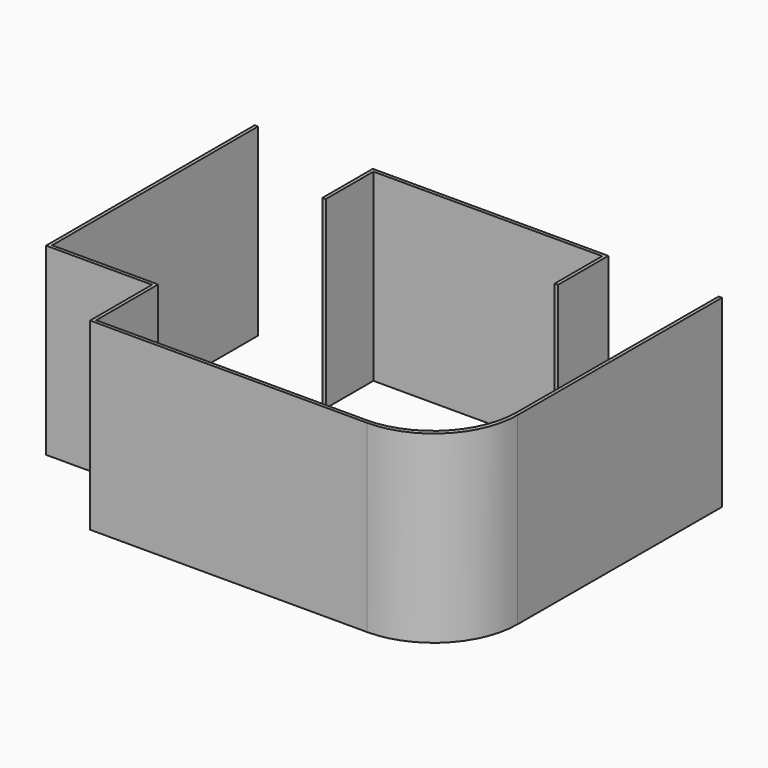
from build123d import *

# Parameters (mm, degrees)
F1_DEPTH = 2200


with BuildPart() as f1:
    # F0 (on Top) → F1 (new body)
    with BuildSketch(Plane.XY):
        with BuildLine():
            Line((2898.042934, 1802.269223), (2858.043085, 1802.379222))
            Line((2858.043085, 1802.379222), (2849.785559, -1200.355644))
            ThreePointArc((2849.785559, -1200.355644), (2555.923184, -1905.684035), (1849.789341, -2197.605653))
            Line((1849.789341, -2197.605653), (-1375.95688, -2197.605653))
            Line((-1375.95688, -2197.605653), (-1375.95688, -1272.605653))
            Line((-1375.95688, -1272.605653), (-2641.95688, -1272.605653))
            Line((-2641.95688, -1272.605653), (-2641.95688, 1801.756748))
            Line((-2641.95688, 1801.756748), (-2681.95688, 1801.756748))
            Line((-2681.95688, 1801.756748), (-2681.95688, -1312.605653))
            Line((-2681.95688, -1312.605653), (-1415.95688, -1312.605653))
            Line((-1415.95688, -1312.605653), (-1415.95688, -2237.605653))
            Line((-1415.95688, -2237.605653), (1889.679492, -2237.605653))
            ThreePointArc((1889.679492, -2237.605653), (2595.813335, -1945.684035), (2889.67571, -1240.355644))
            Line((2889.67571, -1240.355644), (2898.042934, 1802.269223))
        make_face()
        Polygon((1541.224041, 1051.756748), (1541.224041, 1801.756748), (-1271.95688, 1801.756748), (-1271.95688, 1051.756748), (-1231.95688, 1051.756748), (-1231.95688, 1761.756748), (1501.224041, 1761.756748), (1501.224041, 1051.756748), align=None)
    extrude(amount=-F1_DEPTH)


solid = f1.part
